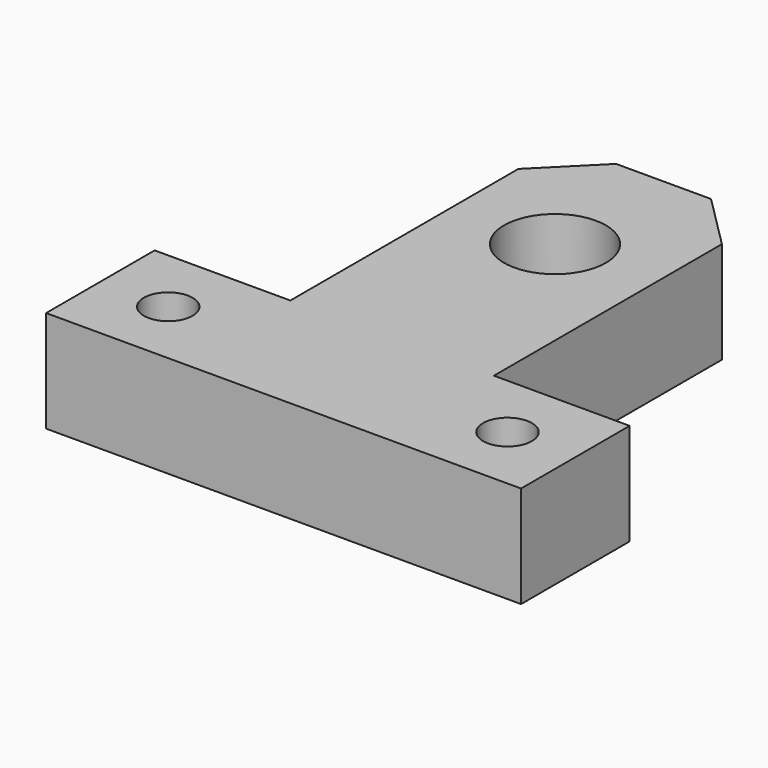
from build123d import *

# Parameters (mm, degrees)
F1_DEPTH = 9.525
F2_R     = 4.7625
F2_R_2   = 2.286
F3_DEPTH = 25.4
F4_SIZE  = 5.08


with BuildPart() as f1:
    # F0 (on Top) → F1 (new body)
    with BuildSketch(Plane.XY):
        Polygon((0, 12.7), (0, 0), (44.45, 0), (44.45, 12.7), (31.75, 12.7), (31.75, 44.45), (12.7, 44.45), (12.7, 12.7), align=None)
    extrude(amount=F1_DEPTH)

    # F2 (on face) → F3 (cut)
    with BuildSketch(Plane.XY.offset(9.525)):
        with Locations((22.225, 31.75)):
            Circle(F2_R)
        with Locations((6.35, 6.35)):
            Circle(F2_R_2)
        with Locations((38.1, 6.35)):
            Circle(F2_R_2)
    extrude(amount=-F3_DEPTH, mode=Mode.SUBTRACT)

    # F4
    f4_edges = [f1.edges().sort_by_distance(p)[0] for p in [
        (12.7, 44.45, 4.7625),
        (31.75, 44.45, 4.7625),
    ]]
    chamfer(f4_edges, length=F4_SIZE)


solid = f1.part
